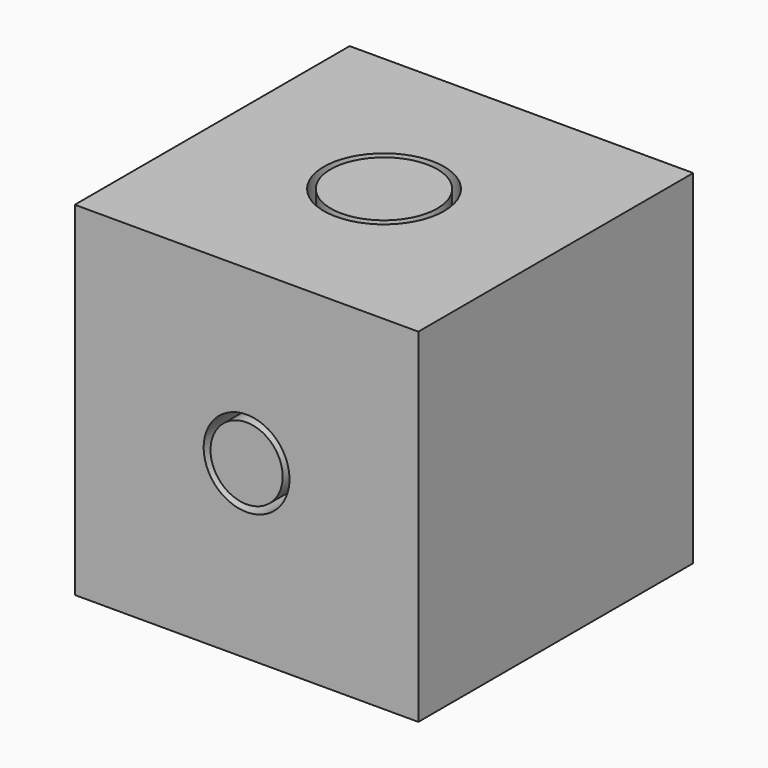
from build123d import *

# Parameters (mm, degrees)
F0_W     = 25.4
F0_H     = 25.4
F1_DEPTH = 25.4
F2_R     = 4.445
F3_DEPTH = 25.401
F5_R     = 3.937
F6_DEPTH = 25.4
F4_R     = 3.175
F7_DEPTH = 25.401
F8_R     = 2.667
F9_DEPTH = 25.4


with BuildPart() as f1:
    # F0 (on Top) → F1 (new body)
    with BuildSketch(Plane.XY):
        Rectangle(F0_W, F0_H)
    extrude(amount=F1_DEPTH)

    # F2 (on face) → F3 (cut, through all)
    with BuildSketch(Plane.XY.offset(25.4)):
        Circle(F2_R)
    extrude(amount=-F3_DEPTH, mode=Mode.SUBTRACT)


with BuildPart() as f6:
    # F5 (on face) → F6 (new body, through all)
    with BuildSketch(Plane(origin=(0, 0, 0), x_dir=(1, 0, 0), z_dir=(0, 0, -1))):
        Circle(F5_R)
    extrude(amount=-F6_DEPTH)


with BuildPart() as f7_tool:
    # F4 (on face) → F7 (new body, through all)
    with BuildSketch(Plane(origin=(0, 12.7, 0), x_dir=(-1, 0, 0), z_dir=(0, 1, 0))):
        with Locations((0, 12.7)):
            Circle(F4_R)
    extrude(amount=-F7_DEPTH)


with BuildPart() as f1_1:
    add(f1.part)

    # F7: cut by f7_tool
    add(f7_tool.part, mode=Mode.SUBTRACT)


with BuildPart() as f6_1:
    add(f6.part)

    # F7: cut by f7_tool
    add(f7_tool.part, mode=Mode.SUBTRACT)


with BuildPart() as f9:
    # F8 (on face) → F9 (new body, through all)
    with BuildSketch(Plane.XZ.offset(12.7)):
        with Locations((0, 12.7)):
            Circle(F8_R)
    extrude(amount=-F9_DEPTH)


solid = Compound([f1_1.part, f6_1.part, f9.part])
